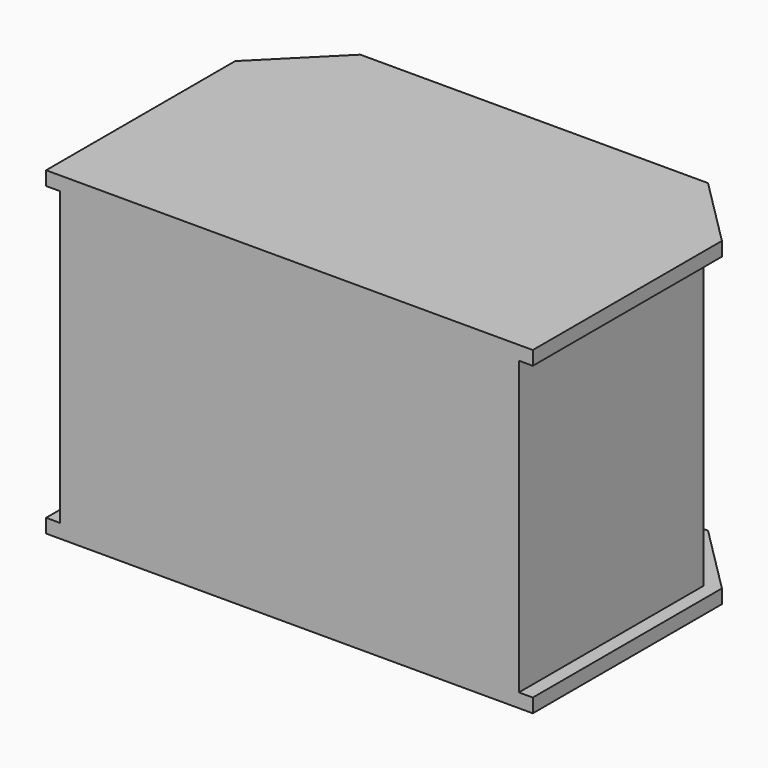
from build123d import *

# Parameters (mm, degrees)
F1_DEPTH  = 2300
F2_W      = 1700
F2_H      = 2100
F3_DEPTH  = 100
F4_W      = 707.1067811865
F4_H      = 2100
F5_DEPTH  = 100
F6_W      = 2500
F6_H      = 2100
F7_DEPTH  = 100
F8_W      = 707.1067811865
F8_H      = 2100
F9_DEPTH  = 100
F10_W     = 1700
F10_H     = 2100
F11_DEPTH = 100


with BuildPart() as f1:
    # F0 (on Top) → F1 (new body)
    with BuildSketch(Plane.XY):
        Polygon((1750, 600), (1250, 1100), (-1250, 1100), (-1750, 600), (-1750, -1100), (1750, -1100), align=None)
    extrude(amount=F1_DEPTH)

    # F2 (on face) → F3 (cut)
    with BuildSketch(Plane(origin=(-1750, 0, 0), x_dir=(0, -1, 0), z_dir=(-1, 0, 0))):
        with Locations((250, 1150)):
            Rectangle(F2_W, F2_H)
    extrude(amount=-F3_DEPTH, mode=Mode.SUBTRACT)

    # F4 (on face) → F5 (cut)
    with BuildSketch(Plane(origin=(-1175, 1175, 0), x_dir=(-0.7071067812, -0.7071067812, 0), z_dir=(-0.7071067812, 0.7071067812, 0))):
        with Locations((459.6194077713, 1150)):
            Rectangle(F4_W, F4_H)
    extrude(amount=-F5_DEPTH, mode=Mode.SUBTRACT)

    # F6 (on face) → F7 (cut)
    with BuildSketch(Plane(origin=(0, 1100, 0), x_dir=(-1, 0, 0), z_dir=(0, 1, 0))):
        with Locations((0, 1150)):
            Rectangle(F6_W, F6_H)
    extrude(amount=-F7_DEPTH, mode=Mode.SUBTRACT)

    # F8 (on face) → F9 (cut)
    with BuildSketch(Plane(origin=(1175, 1175, 0), x_dir=(-0.7071067812, 0.7071067812, 0), z_dir=(0.7071067812, 0.7071067812, 0))):
        with Locations((-459.6194077713, 1150)):
            Rectangle(F8_W, F8_H)
    extrude(amount=-F9_DEPTH, mode=Mode.SUBTRACT)

    # F10 (on face) → F11 (cut)
    with BuildSketch(Plane.YZ.offset(1750)):
        with Locations((-250, 1150)):
            Rectangle(F10_W, F10_H)
    extrude(amount=-F11_DEPTH, mode=Mode.SUBTRACT)


solid = f1.part
